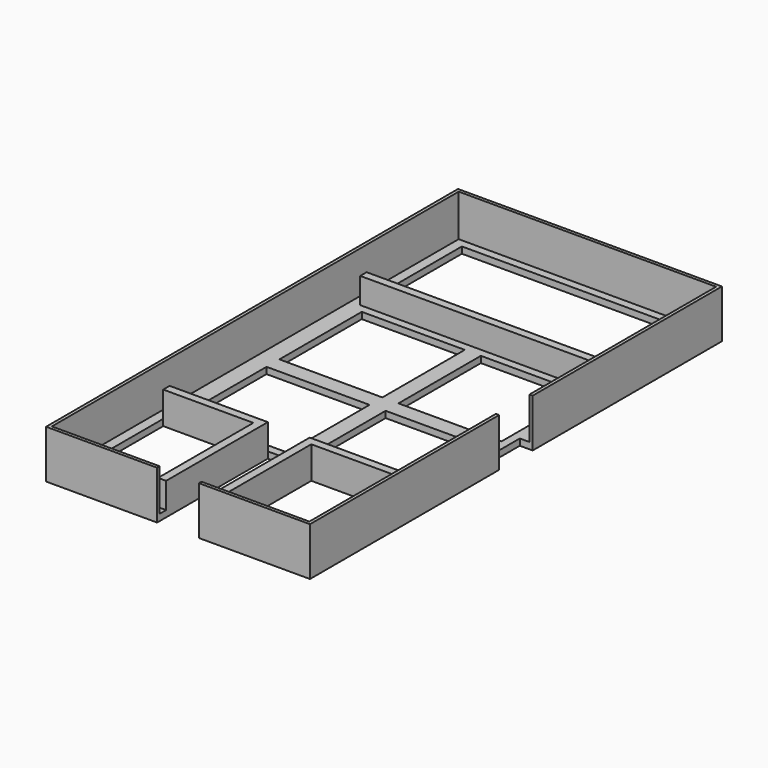
from build123d import *

# Parameters (mm, degrees)
F0_W     = 32
F0_H     = 32
F1_DEPTH = 2
F2_DEPTH = 15
F3_DEPTH = 2
F0_W_2   = 74
F0_H_2   = 2.5
F4_DEPTH = 10


with BuildPart() as f1:
    # F0 (on Top) → F1 (new body)
    with BuildSketch(Plane.XY):
        Polygon((6.5, -37), (37, -37), (37, -6.5), (37, 6.5), (37, 37), (-37, 37), (-37, -37), (-6.5, -37), align=None)
        with Locations((-18.5, -18.5)):
            Rectangle(F0_W, F0_H, mode=Mode.SUBTRACT)
        with Locations((18.5, -18.5)):
            Rectangle(F0_W, F0_H, mode=Mode.SUBTRACT)
        with Locations((-18.5, 18.5)):
            Rectangle(F0_W, F0_H, mode=Mode.SUBTRACT)
        with Locations((18.5, 18.5)):
            Rectangle(F0_W, F0_H, mode=Mode.SUBTRACT)
    extrude(amount=F1_DEPTH)



with BuildPart() as f2:
    # F0 (on Top) → F2 (new body)
    with BuildSketch(Plane.XY):
        Polygon((40, 79), (40, 6.5), (41, 6.5), (41, 80), (-41, 80), (-41, -80), (-6.5, -80), (-6.5, -79), (-40, -79), (-40, 79), align=None)
    extrude(amount=F2_DEPTH)


with BuildPart() as f2b:
    # F0 (on Top) → F2, piece 2 (new body)
    with BuildSketch(Plane.XY):
        Polygon((41, -6.5), (40, -6.5), (40, -79), (6.5, -79), (6.5, -80), (41, -80), align=None)
    extrude(amount=F2_DEPTH)


with BuildPart() as f1_1:
    add(f1.part)

    add(f2.part)  # F3 merges F2

    add(f2b.part)  # F3 merges F2b
    # F0 (on Top) → F3 (join)
    with BuildSketch(Plane.XY):
        Polygon((37, 37), (37, 6.5), (40, 6.5), (40, 79), (-40, 79), (-40, -79), (-6.5, -79), (-6.5, -76.5), (-9, -76.5), (-37, -76.5), (-37, -39.5), (-37, -37), (-37, 37), (-37, 39.5), (-37, 76.5), (37, 76.5), (37, 39.5), align=None)
        Polygon((37, -6.5), (37, -37), (37, -39.5), (37, -76.5), (9, -76.5), (6.5, -76.5), (6.5, -79), (40, -79), (40, -6.5), align=None)
    extrude(amount=F3_DEPTH)

    # F0 (on Top) → F4 (join)
    with BuildSketch(Plane.XY):
        Polygon((-6.5, -76.5), (-6.5, -37), (-37, -37), (-37, -39.5), (-9, -39.5), (-9, -76.5), align=None)
        Polygon((37, -39.5), (37, -37), (6.5, -37), (6.5, -76.5), (9, -76.5), (9, -39.5), align=None)
        with Locations((0, 38.25)):
            Rectangle(F0_W_2, F0_H_2)
    extrude(amount=F4_DEPTH)


solid = f1_1.part
